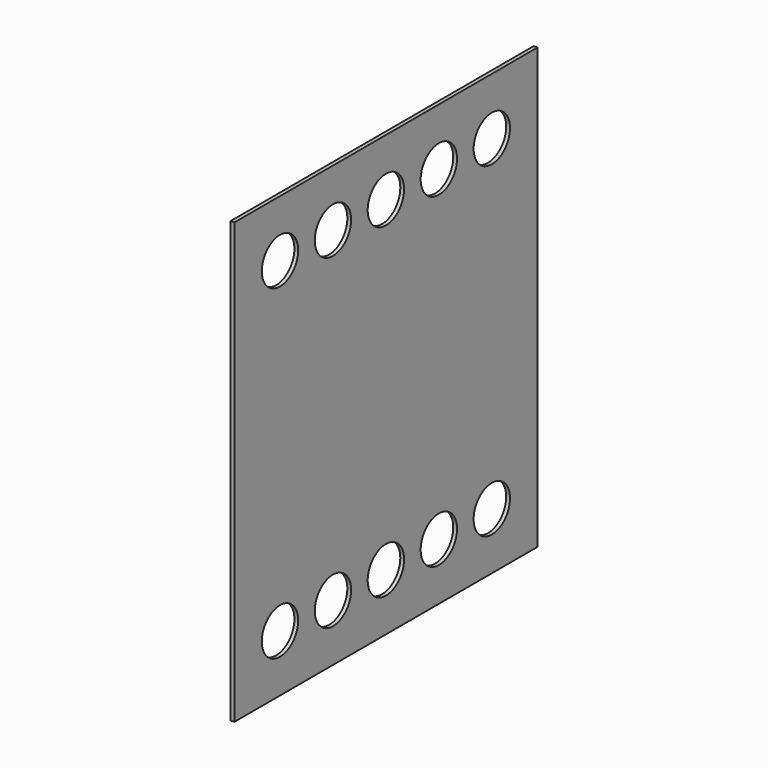
from build123d import *

# Parameters (mm, degrees)
PAD_DEPTH    = 5
SKETCH002_R  = 30
POCKET_DEPTH = 5.001


with BuildPart() as part:
    # Sketch → Pad (new body)
    with BuildSketch(Plane.YZ):
        Polygon((0, 0), (0, 580), (500, 580), (500, 0), (250, 0), align=None)
    extrude(amount=-PAD_DEPTH)

    # Sketch002 (on Face6 of Pad) → Pocket (cut, through all)
    with BuildSketch(Plane.YZ):
        with Locations((250, 505)):
            Circle(SKETCH002_R)
        with Locations((250, 75)):
            Circle(SKETCH002_R)
        with Locations((75.351784, 505)):
            Circle(SKETCH002_R)
        with Locations((75.351784, 75)):
            Circle(SKETCH002_R)
        with Locations((162.675892, 75)):
            Circle(SKETCH002_R)
        with Locations((337.324108, 75)):
            Circle(SKETCH002_R)
        with Locations((424.648216, 75)):
            Circle(SKETCH002_R)
        with Locations((424.648216, 505)):
            Circle(SKETCH002_R)
        with Locations((337.324108, 505)):
            Circle(SKETCH002_R)
        with Locations((162.675892, 505)):
            Circle(SKETCH002_R)
    extrude(amount=-POCKET_DEPTH, mode=Mode.SUBTRACT)


solid = part.part
